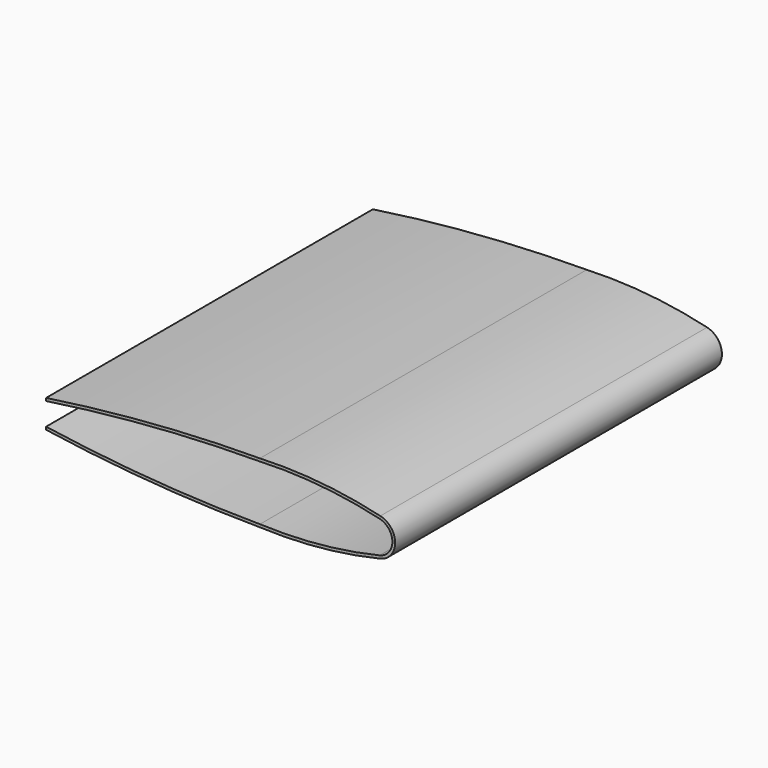
from build123d import *

# Parameters (mm, degrees)
F1_DEPTH = 234.95


with BuildPart() as f1:
    # F0 (on Front) → F1 (new body)
    with BuildSketch(Plane.XZ):
        with BuildLine():
            Line((-126.406589, 6.676218), (-126.406589, 5.088718))
            ThreePointArc((-126.406589, 5.088718), (-65.070293, 11.980131), (-3.398431, 14.472986))
            Line((-3.398431, 14.472986), (-3.398431, 16.060486))
            ThreePointArc((-3.398431, 16.060486), (-65.070293, 13.567631), (-126.406589, 6.676218))
        make_face()
        with BuildLine():
            Line((-3.398431, -18.864514), (-3.398431, -17.277014))
            ThreePointArc((-3.398431, -17.277014), (-65.070293, -14.784159), (-126.406589, -7.892746))
            Line((-126.406589, -7.892746), (-126.406589, -9.480246))
            ThreePointArc((-126.406589, -9.480246), (-65.070293, -16.371659), (-3.398431, -18.864514))
        make_face()
        with BuildLine():
            Line((-3.398431, 16.060486), (-3.398431, 14.472986))
            ThreePointArc((-3.398431, 14.472986), (31.261149, 13.525821), (65.468816, 7.867273))
            ThreePointArc((65.468816, 7.867273), (70.746735, 4.50749), (72.801569, -1.402014))
            ThreePointArc((72.801569, -1.402014), (70.746735, -7.311518), (65.468816, -10.671301))
            ThreePointArc((65.468816, -10.671301), (31.261149, -16.329849), (-3.398431, -17.277014))
            Line((-3.398431, -17.277014), (-3.398431, -18.864514))
            ThreePointArc((-3.398431, -18.864514), (31.451368, -17.920782), (65.843679, -12.213934))
            ThreePointArc((65.843679, -12.213934), (74.389069, -1.402014), (65.843679, 9.409905))
            ThreePointArc((65.843679, 9.409905), (31.451368, 15.116754), (-3.398431, 16.060486))
        make_face()
    extrude(amount=-F1_DEPTH)


solid = f1.part
